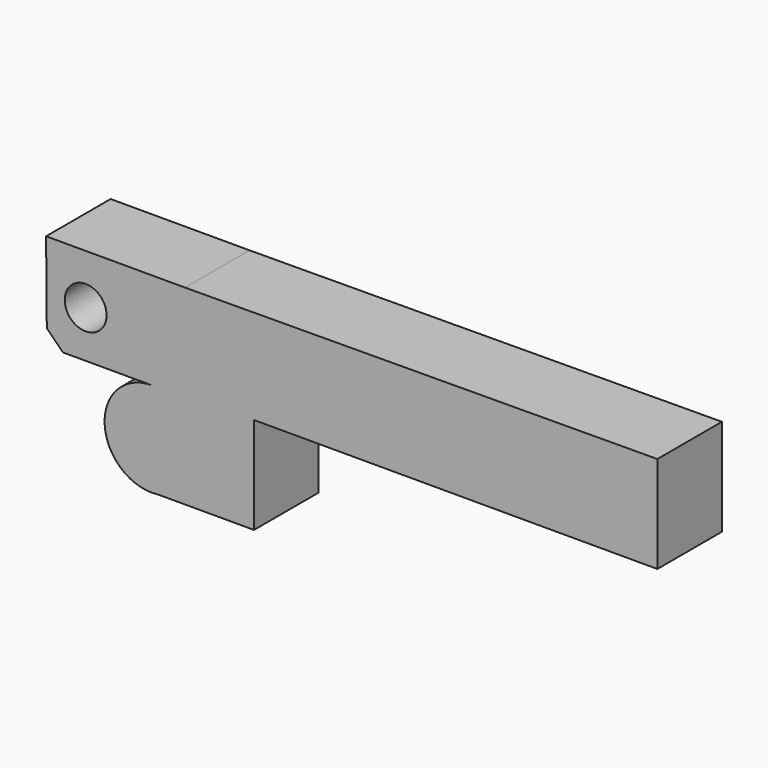
from build123d import *

# Parameters (mm, degrees)
F0_R     = 6.58625
F1_DEPTH = 21.082
F2_DEPTH = 25.4
F3_SIZE  = 5.08


with BuildPart() as f1:
    # F0 (on Front) → F1 (new body)
    with BuildSketch(Plane.XZ):
        with BuildLine():
            Line((91.058975, 12.527699), (91.058975, 43.007699))
            Line((91.058975, 43.007699), (-57.654542, 42.165341))
            Line((-57.654542, 42.165341), (-101.388322, 42.165341))
            Line((-101.388322, 42.165341), (-101.113739, 11.686578))
            Line((-101.113739, 11.686578), (-68.093739, 11.686578))
            ThreePointArc((-68.093739, 11.686578), (-82.944012, -4.153037), (-66.180828, -17.952301))
            Line((-66.180828, -17.952301), (-35.941025, -17.952301))
            Line((-35.941025, -17.952301), (-35.941025, 12.527699))
            Line((-35.941025, 12.527699), (91.058975, 12.527699))
        make_face()
        with Locations((-88.930964, 26.435958)):
            Circle(F0_R, mode=Mode.SUBTRACT)
    extrude(amount=F1_DEPTH)

    # F0 (on Front) → F2 (join)
    with BuildSketch(Plane.XZ):
        with BuildLine():
            Line((91.058975, 12.527699), (91.058975, 43.007699))
            Line((91.058975, 43.007699), (-57.654542, 42.165341))
            Line((-57.654542, 42.165341), (-101.388322, 42.165341))
            Line((-101.388322, 42.165341), (-101.113739, 11.686578))
            Line((-101.113739, 11.686578), (-68.093739, 11.686578))
            ThreePointArc((-68.093739, 11.686578), (-82.944012, -4.153037), (-66.180828, -17.952301))
            Line((-66.180828, -17.952301), (-35.941025, -17.952301))
            Line((-35.941025, -17.952301), (-35.941025, 12.527699))
            Line((-35.941025, 12.527699), (91.058975, 12.527699))
        make_face()
        with Locations((-88.930964, 26.435958)):
            Circle(F0_R, mode=Mode.SUBTRACT)
    extrude(amount=F2_DEPTH)

    # F3
    f3_edges = [f1.edges().sort_by_distance(p)[0] for p in [
        (-101.113739, -12.7, 11.686578),
    ]]
    chamfer(f3_edges, length=F3_SIZE)


solid = f1.part
